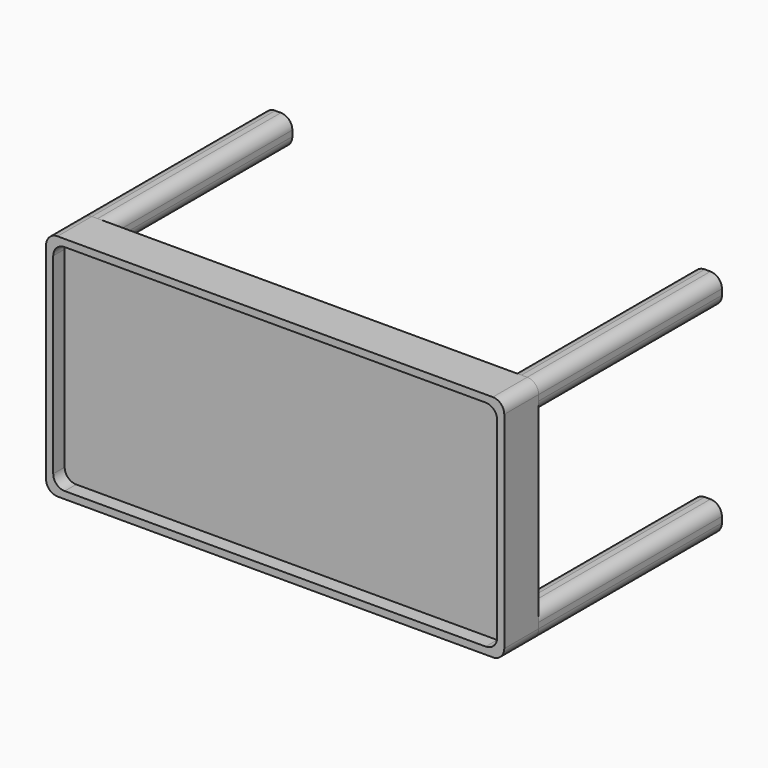
from build123d import *

# Parameters (mm, degrees)
F0_W     = 9.525
F0_H     = 9.525
F1_DEPTH = 12.7
F0_W_2   = 3.175
F0_H_2   = 76.2
F0_W_3   = 177.8
F0_H_3   = 3.175
F2_DEPTH = 19.05
F3_DEPTH = 101.6
F4_R     = 5.08
F4_2_R   = 5.08
F4_3_R   = 5.08
F4_4_R   = 5.08
F4_5_R   = 5.08


with BuildPart() as f1:
    # F0 (on Front) → F1 (new body)
    with BuildSketch(Plane.XZ):
        Polygon((88.9, 38.1), (88.9, 47.625), (-88.9, 47.625), (-88.9, 38.1), (-98.425, 38.1), (-98.425, -38.1), (-88.9, -38.1), (-88.9, -47.625), (88.9, -47.625), (88.9, -38.1), (98.425, -38.1), (98.425, 38.1), align=None)
        with Locations((-93.6625, 42.8625)):
            Rectangle(F0_W, F0_H)
        with Locations((-93.6625, -42.8625)):
            Rectangle(F0_W, F0_H)
        with Locations((93.6625, 42.8625)):
            Rectangle(F0_W, F0_H)
        with Locations((93.6625, -42.8625)):
            Rectangle(F0_W, F0_H)
    extrude(amount=F1_DEPTH)


with BuildPart() as f2:
    # F0 (on Front) → F2 (new body)
    with BuildSketch(Plane.XZ):
        with Locations((-100.0125, 0)):
            Rectangle(F0_W_2, F0_H_2)
        Polygon((-88.9, 47.625), (-88.9, 50.8), (-101.6, 50.8), (-101.6, 38.1), (-98.425, 38.1), (-98.425, 47.625), align=None)
        with Locations((0, 49.2125)):
            Rectangle(F0_W_3, F0_H_3)
        Polygon((101.6, 38.1), (101.6, 50.8), (88.9, 50.8), (88.9, 47.625), (98.425, 47.625), (98.425, 38.1), align=None)
        with Locations((100.0125, 0)):
            Rectangle(F0_W_2, F0_H_2)
        with Locations((0, -49.2125)):
            Rectangle(F0_W_3, F0_H_3)
        Polygon((101.6, -50.8), (101.6, -38.1), (98.425, -38.1), (98.425, -47.625), (88.9, -47.625), (88.9, -50.8), align=None)
        Polygon((-98.425, -38.1), (-101.6, -38.1), (-101.6, -50.8), (-88.9, -50.8), (-88.9, -47.625), (-98.425, -47.625), align=None)
    extrude(amount=F2_DEPTH)

    # F4
    f4_edges = [f2.edges().sort_by_distance(p)[0] for p in [
        (98.425, -9.525, -47.625),
        (98.425, -9.525, 47.625),
        (-98.425, -9.525, -47.625),
        (-98.425, -9.525, 47.625),
        (101.6, -9.525, -50.8),
        (101.6, -9.525, 50.8),
        (-101.6, -9.525, 50.8),
        (-101.6, -9.525, -50.8),
    ]]
    fillet(f4_edges, radius=F4_R)


with BuildPart() as f3:
    # F0 (on Front) → F3 (new body)
    with BuildSketch(Plane.XZ):
        with Locations((-93.6625, 42.8625)):
            Rectangle(F0_W, F0_H)
        Polygon((-88.9, 47.625), (-88.9, 50.8), (-101.6, 50.8), (-101.6, 38.1), (-98.425, 38.1), (-98.425, 47.625), align=None)
    extrude(amount=-F3_DEPTH)

    # F4#5
    f4_5_edges = [f3.edges().sort_by_distance(p)[0] for p in [
        (-101.6, 50.8, 38.1),
        (-101.6, 50.8, 50.8),
        (-88.9, 50.8, 50.8),
        (-88.9, 50.8, 38.1),
    ]]
    fillet(f4_5_edges, radius=F4_5_R)


with BuildPart() as f3b:
    # F0 (on Front) → F3, piece 2 (new body)
    with BuildSketch(Plane.XZ):
        with Locations((-93.6625, -42.8625)):
            Rectangle(F0_W, F0_H)
        Polygon((-98.425, -38.1), (-101.6, -38.1), (-101.6, -50.8), (-88.9, -50.8), (-88.9, -47.625), (-98.425, -47.625), align=None)
    extrude(amount=-F3_DEPTH)

    # F4#4
    f4_4_edges = [f3b.edges().sort_by_distance(p)[0] for p in [
        (-101.6, 50.8, -50.8),
        (-88.9, 50.8, -50.8),
        (-101.6, 50.8, -38.1),
        (-88.9, 50.8, -38.1),
    ]]
    fillet(f4_4_edges, radius=F4_4_R)


with BuildPart() as f3c:
    # F0 (on Front) → F3, piece 3 (new body)
    with BuildSketch(Plane.XZ):
        with Locations((93.6625, -42.8625)):
            Rectangle(F0_W, F0_H)
        Polygon((101.6, -50.8), (101.6, -38.1), (98.425, -38.1), (98.425, -47.625), (88.9, -47.625), (88.9, -50.8), align=None)
    extrude(amount=-F3_DEPTH)

    # F4#3
    f4_3_edges = [f3c.edges().sort_by_distance(p)[0] for p in [
        (101.6, 50.8, -38.1),
        (101.6, 50.8, -50.8),
        (88.9, 50.8, -38.1),
        (88.9, 50.8, -50.8),
    ]]
    fillet(f4_3_edges, radius=F4_3_R)


with BuildPart() as f3d:
    # F0 (on Front) → F3, piece 4 (new body)
    with BuildSketch(Plane.XZ):
        with Locations((93.6625, 42.8625)):
            Rectangle(F0_W, F0_H)
        Polygon((101.6, 38.1), (101.6, 50.8), (88.9, 50.8), (88.9, 47.625), (98.425, 47.625), (98.425, 38.1), align=None)
    extrude(amount=-F3_DEPTH)

    # F4#2
    f4_2_edges = [f3d.edges().sort_by_distance(p)[0] for p in [
        (101.6, 50.8, 50.8),
        (88.9, 50.8, 38.1),
        (88.9, 50.8, 50.8),
        (101.6, 50.8, 38.1),
    ]]
    fillet(f4_2_edges, radius=F4_2_R)


solid = Compound([f1.part, f2.part, f3.part, f3b.part, f3c.part, f3d.part])
